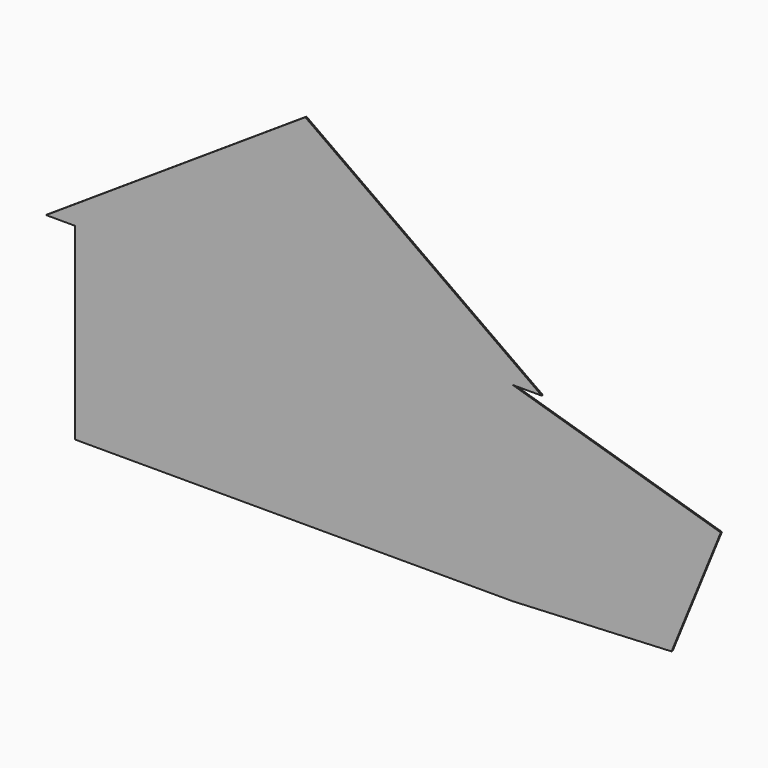
from build123d import *

# Parameters (mm, degrees)
F0_W     = 1150.0381231308
F0_H     = 683.8063001633
F0_W_2   = 1392.1880722046
F0_H_2   = 1216.9328927994
F0_W_3   = 1087.8736972809
F0_H_3   = 1596.6608407974
F0_W_4   = 712.281703949
F0_H_4   = 506.6640377045
F1_DEPTH = 30.48


with BuildPart() as f1:
    # F0 (on Front) → F1 (new body)
    with BuildSketch(Plane.XZ):
        Polygon((0, 2750.7667541504), (-4572, 0), (-4572, -3352.8), (-777.7588963509, -3352.8), (-777.7588963509, -1261.7027759552), (1261.9581222534, -1261.7027759552), (1261.9581222534, -3352.8), (4644.5555686951, -3352.8), (4644.5555686951, -556.6199421883), (4644.5555686951, 46.6231629252), align=None)
        Polygon((-4151.6819000244, -1725.0570058823), (-4151.6819000244, -810.6570058823), (-2193.5088634491, -854.7579646111), (-2193.5088634491, -1725.0570058823), align=None, mode=Mode.SUBTRACT)
        with Locations((2173.5275387764, -1352.0717024803)):
            Rectangle(F0_W, F0_H, mode=Mode.SUBTRACT)
        Polygon((8804.9857739324, -1802.8956907823), (4644.5555686951, -556.6199421883), (4644.5555686951, -3352.8), (8172.7228248237, -3352.8), align=None)
        with Locations((6555.5100440979, -2285.2873206139)):
            Rectangle(F0_W_2, F0_H_2, mode=Mode.SUBTRACT)
        Polygon((-5181.6, 0), (-4572, 0), (0, 2750.7667541504), (4644.5555686951, 46.6231629252), (5254.1555686951, 46.6231629252), (276.7887413502, 3589.2996788025), align=None)
        Polygon((-777.7588963509, -3352.8), (-4572, -3352.8), (-4572, -3962.4), (4644.5555686951, -3962.4), (4644.5555686951, -3352.8), (1261.9581222534, -3352.8), (821.4556574821, -3352.8), (-266.4180397987, -3352.8), align=None)
        Polygon((9024.2739507194, -1265.3413541859), (4644.5555686951, 46.6231629252), (4644.5555686951, -556.6199421883), (8804.9857739324, -1802.8956907823), align=None)
        Polygon((-777.7588963509, -1261.7027759552), (-777.7588963509, -3352.8), (-266.4180397987, -3352.8), (-266.4180397987, -1756.1391592026), (821.4556574821, -1756.1391592026), (821.4556574821, -3352.8), (1261.9581222534, -3352.8), (1261.9581222534, -1261.7027759552), align=None)
        Polygon((4644.5555686951, -3352.8), (4644.5555686951, -3962.4), (7988.1200783626, -3805.3278487957), (8172.7228248237, -3352.8), align=None)
        Polygon((-2193.5088634491, -854.7579646111), (-4151.6819000244, -810.6570058823), (-4151.6819000244, -1725.0570058823), (-2193.5088634491, -1725.0570058823), align=None)
        with Locations((277.5188088417, -2554.4695796013)):
            Rectangle(F0_W_3, F0_H_3)
        with Locations((6555.5100440979, -2285.2873206139)):
            Rectangle(F0_W_2, F0_H_2)
        with Locations((6571.6979503632, -2345.3673124313)):
            Rectangle(F0_W_4, F0_H_4, mode=Mode.SUBTRACT)
        with Locations((2173.5275387764, -1352.0717024803)):
            Rectangle(F0_W, F0_H)
        with Locations((6571.6979503632, -2345.3673124313)):
            Rectangle(F0_W_4, F0_H_4)
    extrude(amount=F1_DEPTH)


solid = f1.part
